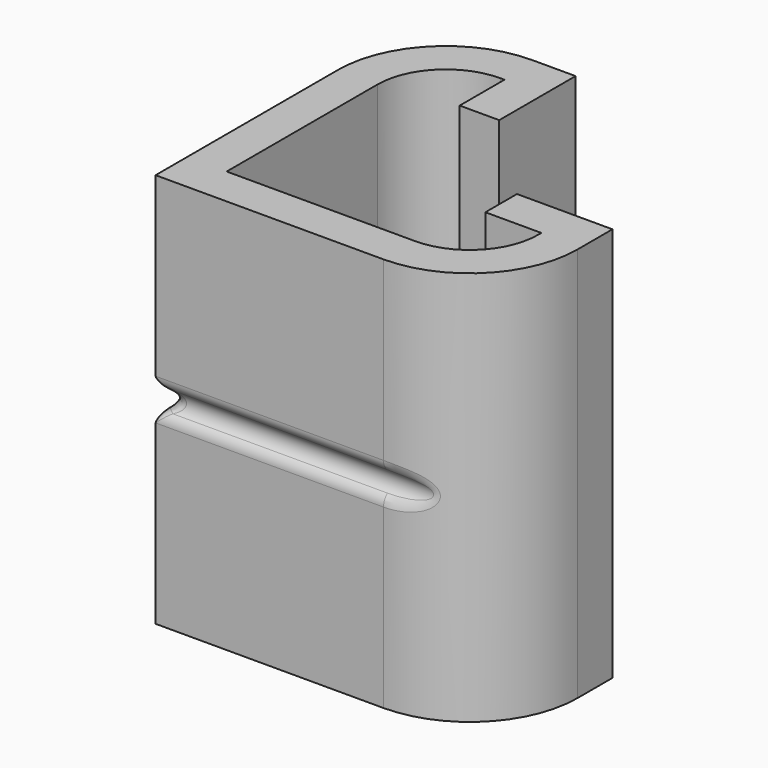
from build123d import *

# Parameters (mm, degrees)
PAD001_DEPTH    = 15
SKETCH002_R     = 1
POCKET_DEPTH    = 25.501
SKETCH003_R     = 1
POCKET001_DEPTH = 25.501
FILLET_R        = 1


with BuildPart() as part:
    # Sketch001 → Pad001 (new body, symmetric)
    with BuildSketch(Plane.XY):
        with BuildLine():
            Line((-8.25, -8.25), (-8.25, 9.0625))
            ThreePointArc((-0.0625, 17.25), (-5.851937, 14.851937), (-8.25, 9.0625))
            Line((-0.0625, 17.25), (3.25, 17.25))
            Line((3.25, 17.25), (3.25, 10))
            Line((3.25, 10), (0.25, 10))
            Line((0.25, 10), (0.25, 14.25))
            Line((-0.0625, 14.25), (0.25, 14.25))
            ThreePointArc((-0.0625, 14.25), (-3.730616, 12.730616), (-5.25, 9.0625))
            Line((-5.25, -5.25), (-5.25, 9.0625))
            Line((9.0625, -5.25), (-5.25, -5.25))
            ThreePointArc((9.0625, -5.25), (12.730616, -3.730616), (14.25, -0.0625))
            Line((14.25, 0.25), (14.25, -0.0625))
            Line((10, 0.25), (14.25, 0.25))
            Line((10, 3.25), (10, 0.25))
            Line((17.25, 3.25), (10, 3.25))
            Line((17.25, -0.0625), (17.25, 3.25))
            ThreePointArc((9.0625, -8.25), (14.851937, -5.851937), (17.25, -0.0625))
            Line((-8.25, -8.25), (9.0625, -8.25))
        make_face()
    extrude(amount=PAD001_DEPTH, both=True)

    # Sketch002 (on Face1 of Pad001) → Pocket (cut, through all)
    with BuildSketch(Plane.XZ.offset(8.25)):
        with Locations((-8.5, 0)):
            Circle(SKETCH002_R)
    extrude(amount=-POCKET_DEPTH, mode=Mode.SUBTRACT)

    # Sketch003 (on Face5 of Pocket) → Pocket001 (cut, through all)
    with BuildSketch(Plane(origin=(-8.25, 0, 0), x_dir=(0, -1, 0), z_dir=(-1, 0, 0))):
        with Locations((8.5, 0)):
            Circle(SKETCH003_R)
    extrude(amount=-POCKET001_DEPTH, mode=Mode.SUBTRACT)

    # Fillet
    fillet_edges = [part.edges().sort_by_distance(p)[0] for p in [
        (-7.750694, -7.750694, 0.662224),
        (-7.750694, -7.750694, -0.662224),
        (0.40625, -8.25, -0.968246),
        (12.485766, -7.5, 0),
        (0.40625, -8.25, 0.968246),
        (-8.020464, 10.98759, -0.877522),
        (-8.25, 0.40625, -0.968246),
        (-7.5, 2.492883, 0),
    ]]
    fillet(fillet_edges, radius=FILLET_R)


solid = part.part
